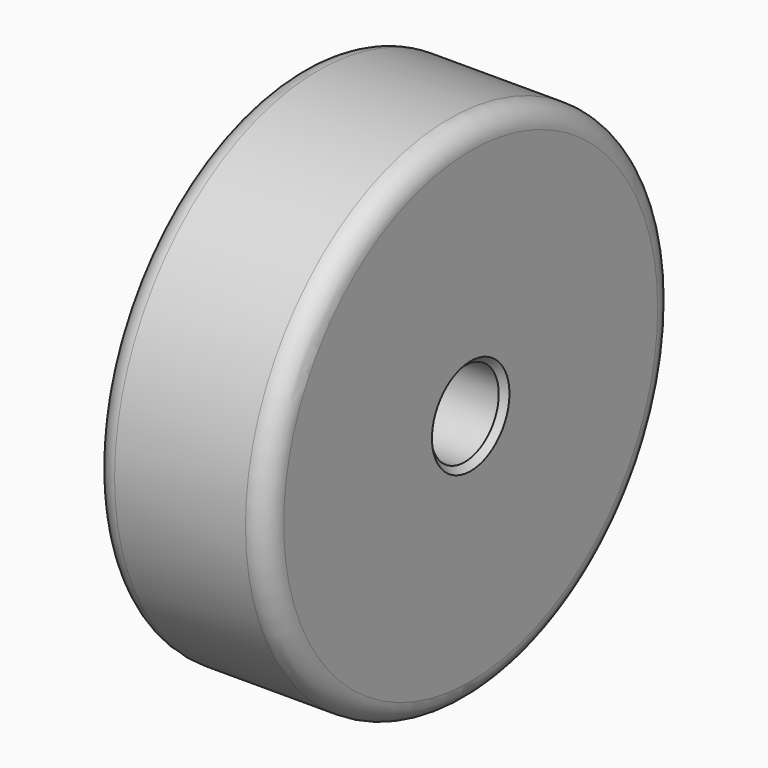
from build123d import *

# Parameters (mm, degrees)
F0_R     = 38.1
F0_R_2   = 6.35
F1_DEPTH = 25.908
F2_R     = 3.175
F3_SIZE  = 0.889


with BuildPart() as f1:
    # F0 (on Right) → F1 (new body)
    with BuildSketch(Plane.YZ):
        Circle(F0_R)
        Circle(F0_R_2, mode=Mode.SUBTRACT)
    extrude(amount=F1_DEPTH)

    # F2
    f2_edges = [f1.edges().sort_by_distance(p)[0] for p in [
        (12.954, 38.1, 0),
        (0, -38.1, 0),
        (25.908, -38.1, 0),
    ]]
    fillet(f2_edges, radius=F2_R)

    # F3
    f3_edges = [f1.edges().sort_by_distance(p)[0] for p in [
        (12.954, 6.35, 0),
        (0, -6.35, 0),
        (25.908, -6.35, 0),
    ]]
    chamfer(f3_edges, length=F3_SIZE)


solid = f1.part
